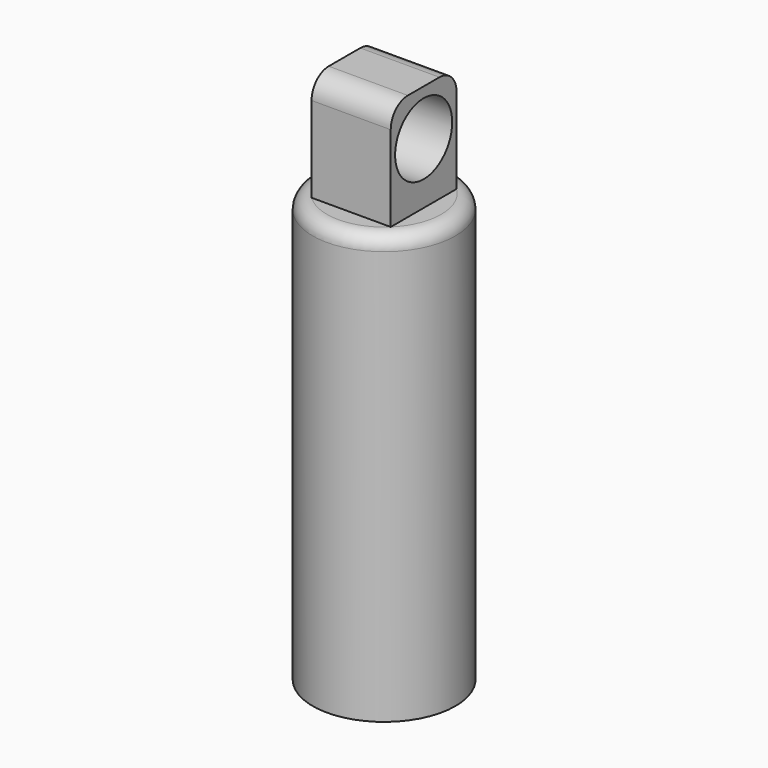
from build123d import *

# Parameters (mm, degrees)
F0_R     = 25.4
F1_DEPTH = 152.4
F2_R     = 5.08
F3_W     = 28.1686
F3_H     = 29.29402
F4_DEPTH = 38.1
F6_R     = 7.62
F5_R     = 12.7
F7_DEPTH = 39.4853


with BuildPart() as f1:
    # F0 (on Top) → F1 (new body)
    with BuildSketch(Plane.XY):
        Circle(F0_R)
    extrude(amount=F1_DEPTH)

    # F2
    f2_edges = [f1.edges().sort_by_distance(p)[0] for p in [
        (-25.4, 0, 152.4),
    ]]
    fillet(f2_edges, radius=F2_R)

    # F3 (on face) → F4 (join)
    with BuildSketch(Plane.XY.offset(152.4)):
        Rectangle(F3_W, F3_H)
    extrude(amount=F4_DEPTH)

    # F6
    f6_edges = [f1.edges().sort_by_distance(p)[0] for p in [
        (0, -14.64701, 190.5),
        (0, 14.64701, 190.5),
    ]]
    fillet(f6_edges, radius=F6_R)

    # F5 (on face) → F7 (cut, through all)
    with BuildSketch(Plane.YZ.offset(14.0843)):
        with Locations((0, 174.101845)):
            Circle(F5_R)
    extrude(amount=-F7_DEPTH, mode=Mode.SUBTRACT)


solid = f1.part
